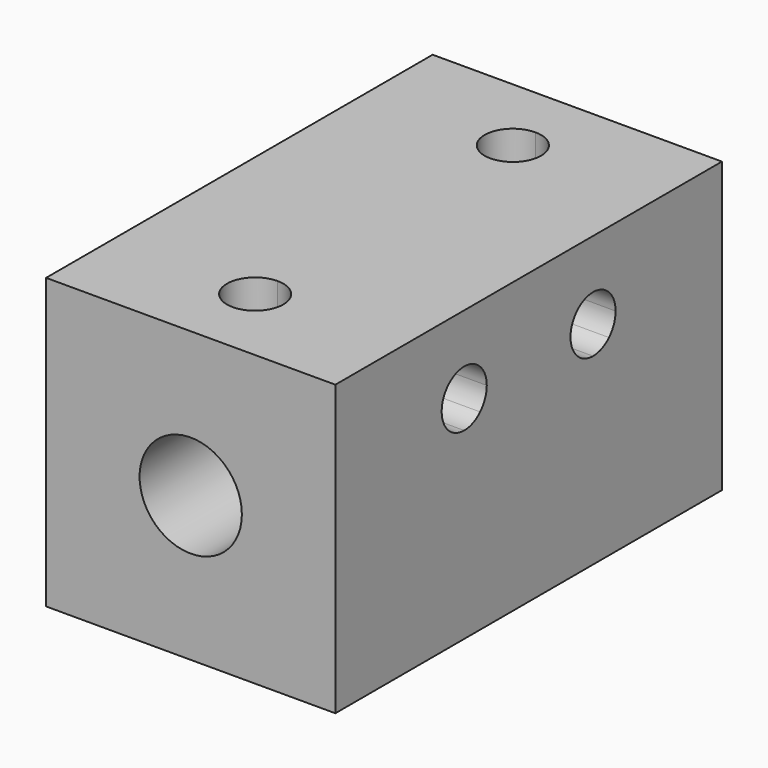
from build123d import *

# Parameters (mm, degrees)
F0_W     = 17.9605122421
F0_H     = 17.9605122421
F1_DEPTH = 30
F2_R     = 3.175
F3_DEPTH = 15
F4_R     = 3
F5_DEPTH = 15
F7_DEPTH = 10.5811646208
F9_DEPTH = 51.3227693737


with BuildPart() as f1:
    # F0 (on Front) → F1 (new body)
    with BuildSketch(Plane.XZ):
        with Locations((8.9802561211, 8.9802561211)):
            Rectangle(F0_W, F0_H)
    extrude(amount=F1_DEPTH)

    # F2 (on face) → F3 (cut)
    with BuildSketch(Plane.XZ.offset(30)):
        with Locations((8.9802561211, 8.9802561211)):
            Circle(F2_R)
    extrude(amount=-F3_DEPTH, mode=Mode.SUBTRACT)

    # F4 (on face) → F5 (cut)
    with BuildSketch(Plane(origin=(0, 0, 0), x_dir=(-1, 0, 0), z_dir=(0, 1, 0))):
        with Locations((-8.9802561211, 8.9802561211)):
            Circle(F4_R)
    extrude(amount=-F5_DEPTH, mode=Mode.SUBTRACT)

    # F6 (on face) → F7 (cut)
    with BuildSketch(Plane.XY.offset(17.9605122421)):
        with BuildLine():
            ThreePointArc((8.9802561211, -23.25), (7.2302561211, -25), (8.9802561211, -26.75))
            Line((8.9802561211, -26.75), (8.9802561211, -23.25))
        make_face()
        with BuildLine():
            Line((8.9802561211, -23.25), (8.9802561211, -26.75))
            ThreePointArc((8.9802561211, -26.75), (10.2176929881, -26.2374368671), (10.7302561211, -25))
            ThreePointArc((10.7302561211, -25), (10.2176929881, -23.7625631329), (8.9802561211, -23.25))
        make_face()
        with BuildLine():
            ThreePointArc((8.9802561211, -3.25), (7.2302561211, -5), (8.9802561211, -6.75))
            Line((8.9802561211, -6.75), (8.9802561211, -3.25))
        make_face()
        with BuildLine():
            Line((8.9802561211, -3.25), (8.9802561211, -6.75))
            ThreePointArc((8.9802561211, -6.75), (10.2176929881, -6.2374368671), (10.7302561211, -5))
            ThreePointArc((10.7302561211, -5), (10.2176929881, -3.7625631329), (8.9802561211, -3.25))
        make_face()
    extrude(amount=-F7_DEPTH, mode=Mode.SUBTRACT)

    # F8 (on face) → F9 (cut)
    with BuildSketch(Plane.YZ.offset(17.9605122421)):
        with BuildLine():
            ThreePointArc((-21.2362894379, 11.9046728878), (-20, 12.1552561211), (-18.7637105621, 11.9046728878))
            ThreePointArc((-18.7637105621, 11.9046728878), (-18.38352134, 12.4728109393), (-18.25, 13.1432561211))
            Line((-18.25, 13.1432561211), (-21.75, 13.1432561211))
            ThreePointArc((-21.75, 13.1432561211), (-21.61647866, 12.4728109393), (-21.2362894379, 11.9046728878))
        make_face()
        with BuildLine():
            ThreePointArc((-20, 11.3932561211), (-19.3310533124, 11.5261567645), (-18.7637105621, 11.9046728878))
            ThreePointArc((-18.7637105621, 11.9046728878), (-20, 12.1552561211), (-21.2362894379, 11.9046728878))
            ThreePointArc((-21.2362894379, 11.9046728878), (-20.6689466876, 11.5261567645), (-20, 11.3932561211))
        make_face()
        with BuildLine():
            Line((-21.75, 13.1432561211), (-18.25, 13.1432561211))
            ThreePointArc((-18.25, 13.1432561211), (-20, 14.8932561211), (-21.75, 13.1432561211))
        make_face()
        with BuildLine():
            ThreePointArc((-10.0000000112, 11.3932561211), (-9.3310533175, 11.5261567623), (-8.7637105621, 11.9046728878))
            ThreePointArc((-8.7637105621, 11.9046728878), (-10, 12.1552561211), (-11.2362894379, 11.9046728878))
            ThreePointArc((-11.2362894379, 11.9046728878), (-10.6689466928, 11.5261567666), (-10.0000000112, 11.3932561211))
        make_face()
        with BuildLine():
            ThreePointArc((-11.2362894379, 11.9046728878), (-10, 12.1552561211), (-8.7637105621, 11.9046728878))
            ThreePointArc((-8.7637105621, 11.9046728878), (-8.38352134, 12.4728109393), (-8.25, 13.1432561211))
            Line((-8.25, 13.1432561211), (-11.75, 13.1432561211))
            ThreePointArc((-11.75, 13.1432561211), (-11.61647866, 12.4728109393), (-11.2362894379, 11.9046728878))
        make_face()
        with BuildLine():
            Line((-11.75, 13.1432561211), (-8.25, 13.1432561211))
            ThreePointArc((-8.25, 13.1432561211), (-10, 14.8932561211), (-11.75, 13.1432561211))
        make_face()
    extrude(amount=-F9_DEPTH, mode=Mode.SUBTRACT)


solid = f1.part
